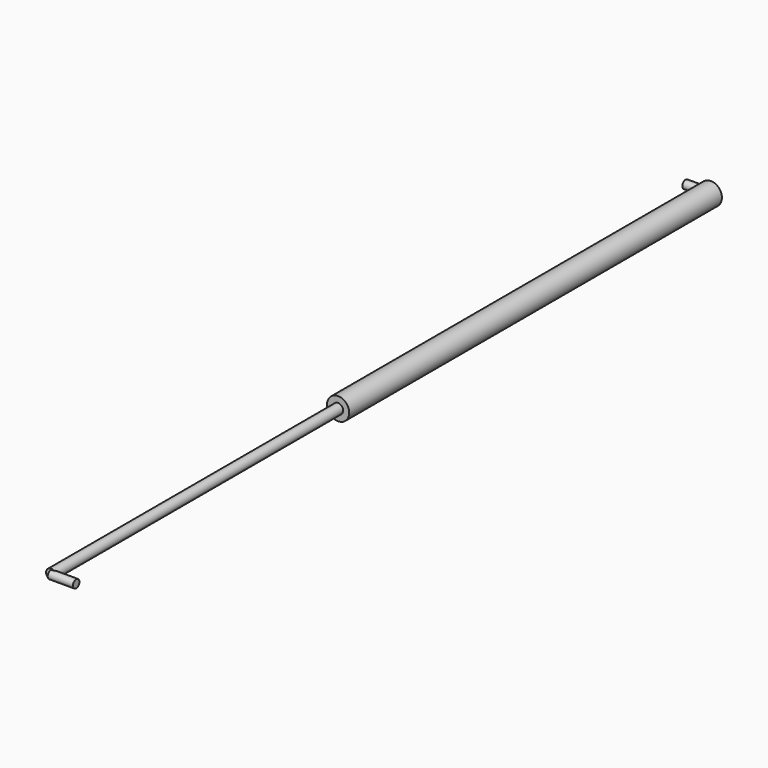
from build123d import *

# Parameters (mm, degrees)
F0_R     = 11
F1_DEPTH = 461
F2_R     = 5
F3_DEPTH = 355
F4_R     = 4
F5_DEPTH = 25
F6_R     = 4
F7_DEPTH = 25


with BuildPart() as f1:
    # F0 (on Front) → F1 (new body)
    with BuildSketch(Plane.XZ):
        Circle(F0_R)
    extrude(amount=F1_DEPTH)

    # F6 (on Right) → F7 (join)
    with BuildSketch(Plane.YZ):
        Circle(F6_R)
    extrude(amount=-F7_DEPTH)


with BuildPart() as f3:
    # F2 (on face) → F3 (new body)
    with BuildSketch(Plane.XZ.offset(461)):
        Circle(F2_R)
    extrude(amount=F3_DEPTH)

    # F4 (on Right) → F5 (join)
    with BuildSketch(Plane.YZ):
        with Locations((-816.225052, 0)):
            Circle(F4_R)
    extrude(amount=F5_DEPTH)


solid = Compound([f1.part, f3.part])
